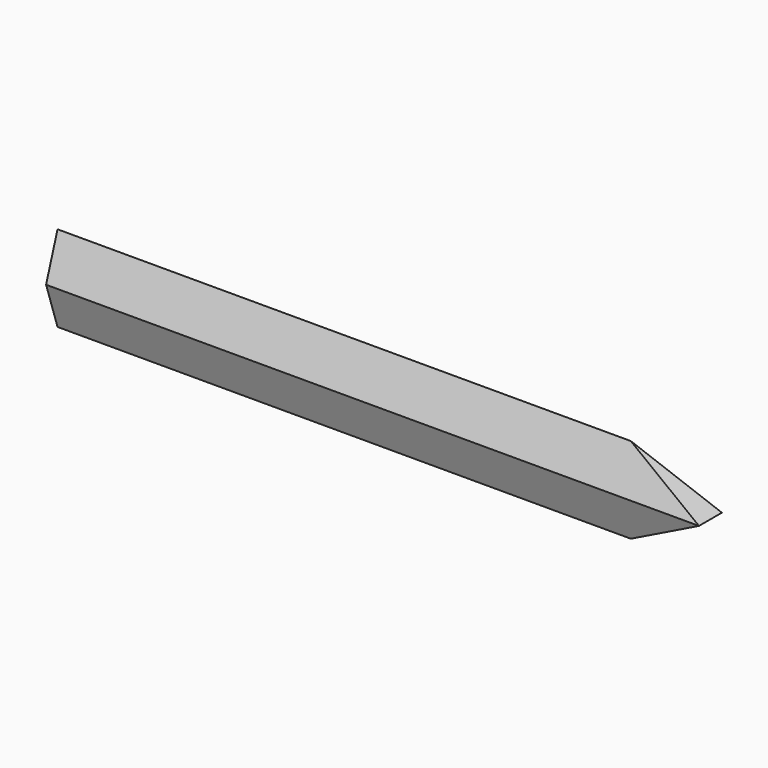
from build123d import *

# Parameters (mm, degrees)
F0_W     = 127
F0_H     = 19.05
F1_DEPTH = 6.35
F3_DEPTH = 298.45
F4_W     = 12.7
F4_H     = 19.05
F5_DEPTH = 324.104


with BuildPart() as f1:
    # F0 (on Front) → F1 (new body, symmetric)
    with BuildSketch(Plane.XZ):
        Polygon((0, 19.05), (-127, 19.05), (-127, -19.05), (0, -19.05), (0, 0), align=None)
        with Locations((63.5, 9.525)):
            Rectangle(F0_W, F0_H)
        Polygon((162.265509367, 0), (127, 19.05), (127, 0), align=None)
        with Locations((63.5, -9.525)):
            Rectangle(F0_W, F0_H)
        Polygon((162.265509367, 0), (127, 0), (127, -19.05), align=None)
    extrude(amount=F1_DEPTH, both=True)

    # F2 (on face) → F3 (cut)
    with BuildSketch(Plane(origin=(-127, 0, 0), x_dir=(0, -1, 0), z_dir=(-1, 0, 0))):
        Polygon((-6.35, 0), (0, 19.05), (-6.35, 19.05), align=None)
        Polygon((0, 19.05), (6.35, 0), (6.35, 19.05), align=None)
    extrude(amount=-F3_DEPTH, mode=Mode.SUBTRACT)

    # F4 (on face) → F5 (cut)
    with BuildSketch(Plane(origin=(-127, 0, 0), x_dir=(0, -1, 0), z_dir=(-1, 0, 0))):
        with Locations((0, -9.525)):
            Rectangle(F4_W, F4_H)
    extrude(amount=-F5_DEPTH, mode=Mode.SUBTRACT)

    # F6: F1 across plane


with BuildPart() as f1_1:
    add(f1.part)
    add(f1.part.mirror(Plane.XY))


solid = f1_1.part
